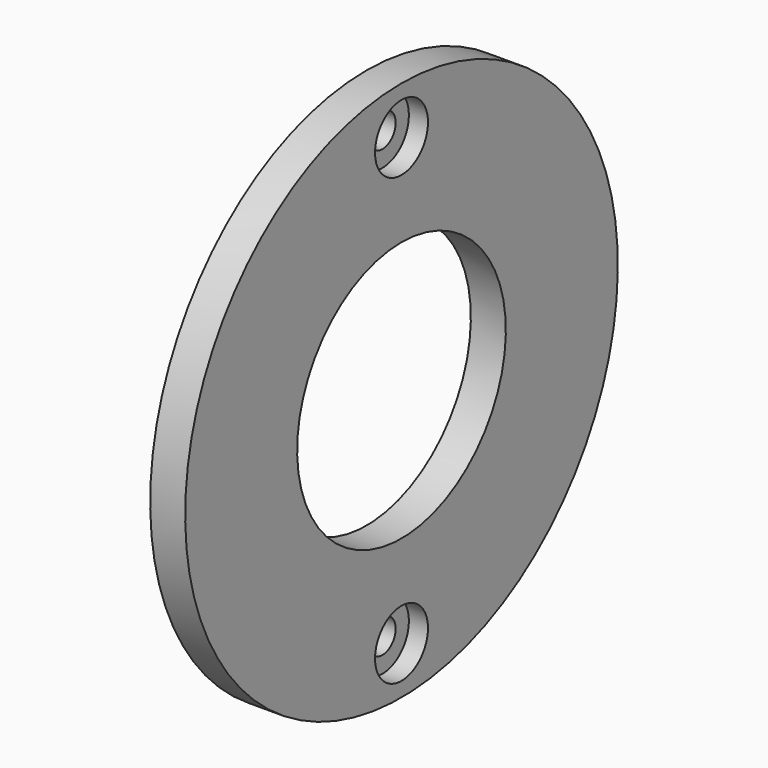
from build123d import *

# Parameters (mm, degrees)
F0_W     = 5.5
F0_H     = 22
F2_R     = 5.2
F3_DEPTH = 3
F4_R     = 2.6
F5_DEPTH = 25


with BuildPart() as f1:
    # F0 (on Front) → F1 (revolve)
    with BuildSketch(Plane.XZ):
        with Locations((5.199999, 31.5)):
            Rectangle(F0_W, F0_H)
    revolve(axis=Axis((-4.686111, 0, 0), (-1, 0, 0)))

    # F2 (on face) → F3 (cut)
    with BuildSketch(Plane.YZ.offset(7.949999)):
        with Locations((0, 35)):
            Circle(F2_R)
        with Locations((0, -35)):
            Circle(F2_R)
    extrude(amount=-F3_DEPTH, mode=Mode.SUBTRACT)

    # F4 (on face) → F5 (cut)
    with BuildSketch(Plane.YZ.offset(4.949999)):
        with Locations((0, 35)):
            Circle(F4_R)
        with Locations((0, -35)):
            Circle(F4_R)
    extrude(amount=-F5_DEPTH, mode=Mode.SUBTRACT)


solid = f1.part
